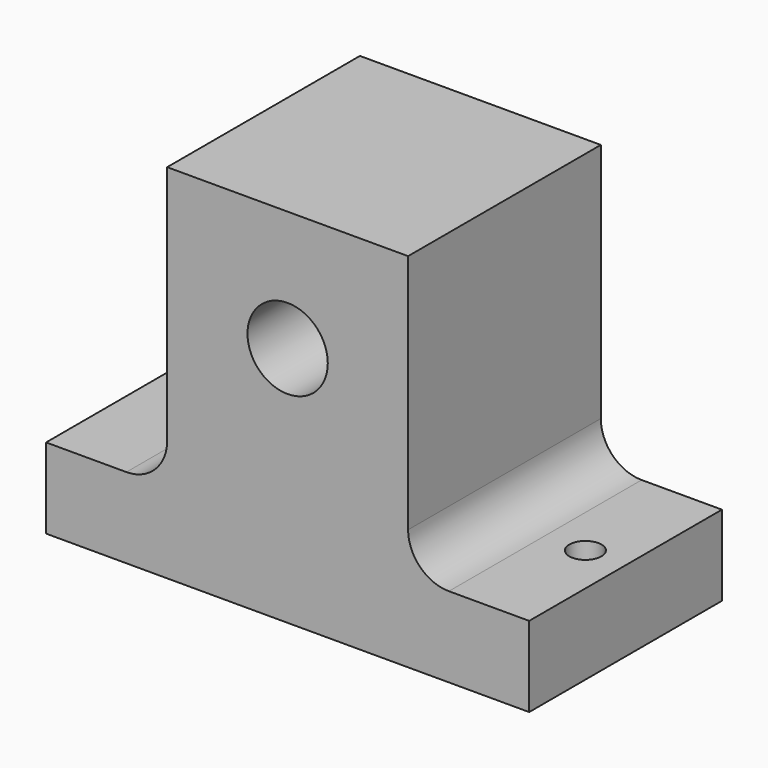
from build123d import *

# Parameters (mm, degrees)
F0_R     = 2.5
F1_DEPTH = 15
F2_R     = 1
F3_DEPTH = 5


with BuildPart() as f1:
    # F0 (on Front) → F1 (new body)
    with BuildSketch(Plane.XZ):
        with BuildLine():
            Line((-44.679829, 5), (-44.679829, 0))
            Line((-44.679829, 0), (-14.599829, 0))
            Line((-14.599829, 0), (-14.599829, 5))
            Line((-14.599829, 5), (-19.599829, 5))
            ThreePointArc((-19.599829, 5), (-21.39588, 5.743949), (-22.139829, 7.54))
            Line((-22.139829, 7.54), (-22.139829, 22.54))
            Line((-22.139829, 22.54), (-37.139829, 22.54))
            Line((-37.139829, 22.54), (-37.139829, 7.54))
            ThreePointArc((-37.139829, 7.54), (-37.883778, 5.743949), (-39.679829, 5))
            Line((-39.679829, 5), (-44.679829, 5))
        make_face()
        with Locations((-29.639829, 15.04)):
            Circle(F0_R, mode=Mode.SUBTRACT)
    extrude(amount=F1_DEPTH)

    # F2 (on face) → F3 (cut)
    with BuildSketch(Plane.XY.offset(5)):
        with Locations((-17.099829, -7.5)):
            Circle(F2_R)
        with Locations((-42.006928, -6.32686)):
            Circle(F2_R)
    extrude(amount=-F3_DEPTH, mode=Mode.SUBTRACT)


solid = f1.part
